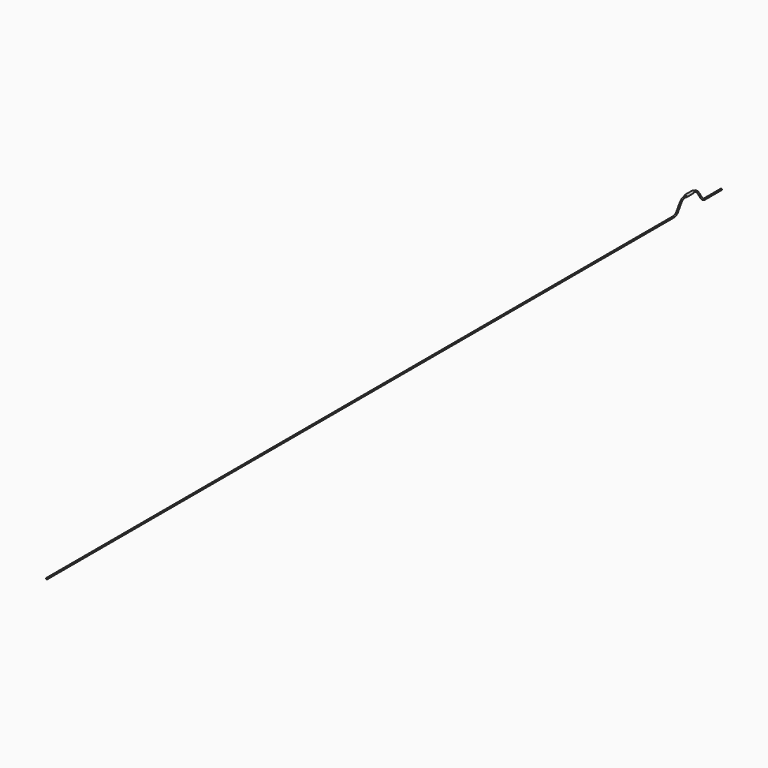
from build123d import *

# Parameters (mm, degrees)
F1_R     = 0.4318
F1_R_2   = 0.3556
F4_R     = 0.762
F5_DEPTH = 6.096


with BuildPart() as f2:
    # F2: sweep along a path in F0
    with BuildLine(Plane.YZ) as f2_path:
        Line((0, 0), (-13.208, 0))
        add(Plane.YZ * Edge.make_bspline(
            [(-13.208, 0), (-14.5542693805, 0), (-16.2599366088, 1.8265916389), (-18.6209142722, 6.3484323245), (-20.9739306572, 7.874), (-22.86, 7.874)],
            knots=[0, 0, 0, 0, 0.2998401634, 0.6599739547, 1, 1, 1, 1], degree=3))
        Line((-22.86, 7.874), (-28.956, 7.874))
        add(Plane.YZ * Edge.make_bspline(
            [(-28.956, 7.874), (-30.8420693428, 7.874), (-33.1950857278, 6.3484323245), (-35.5560633912, 1.8265916389), (-37.2617306195, 0), (-38.608, 0)],
            knots=[0, 0, 0, 0, 0.3400260453, 0.7001598366, 1, 1, 1, 1], degree=3))
        Line((-38.608, 0), (-546.608, 0))
    # F1 (on Front) → F2 (sweep)
    with BuildSketch(Plane.XZ):
        with Locations((0, -0.4318)):
            Circle(F1_R)
        with Locations((0, -0.4318)):
            Circle(F1_R_2, mode=Mode.SUBTRACT)
    sweep(path=f2_path.line)

    # F4 (on offset) → F5 (join)
    with BuildSketch(Plane.XZ.offset(22.86)):
        with Locations((0, 7.4422)):
            Circle(F4_R)
    extrude(amount=F5_DEPTH)


solid = f2.part
